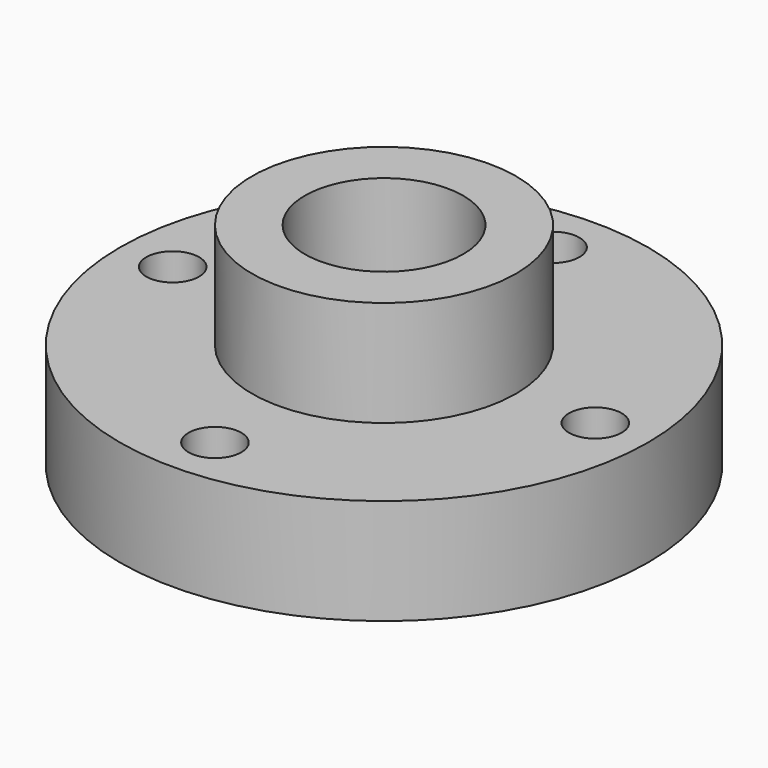
from build123d import *

# Parameters (mm, degrees)
F0_R     = 31.75
F1_DEPTH = 12.7
F2_R     = 15.875
F3_DEPTH = 12.7
F4_R     = 3.175
F5_DEPTH = 25.4
F6_R     = 9.525
F7_DEPTH = 25.401


with BuildPart() as f1:
    # F0 (on Top) → F1 (new body)
    with BuildSketch(Plane.XY):
        Circle(F0_R)
    extrude(amount=F1_DEPTH)

    # F2 (on face) → F3 (join)
    with BuildSketch(Plane.XY.offset(12.7)):
        Circle(F2_R)
    extrude(amount=F3_DEPTH)

    # F4 (on Top) → F5 (cut)
    with BuildSketch(Plane.XY):
        with Locations((0, 25.4)):
            Circle(F4_R)
        with Locations((-25.4, 0)):
            Circle(F4_R)
        with Locations((25.4, 0)):
            Circle(F4_R)
        with Locations((0, -25.4)):
            Circle(F4_R)
    extrude(amount=F5_DEPTH, mode=Mode.SUBTRACT)

    # F6 (on face) → F7 (cut, through all)
    with BuildSketch(Plane.XY.offset(25.4)):
        Circle(F6_R)
    extrude(amount=-F7_DEPTH, mode=Mode.SUBTRACT)


solid = f1.part
